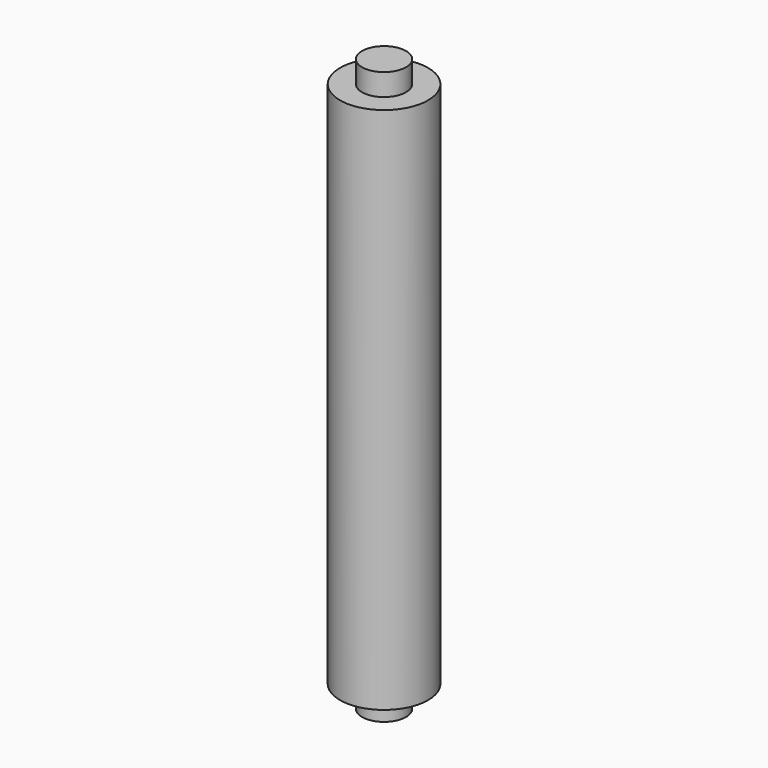
from build123d import *

# Parameters (mm, degrees)
F0_R     = 12.7
F1_DEPTH = 76.2
F2_R     = 6.35
F3_DEPTH = 82.55


with BuildPart() as f1:
    # F0 (on Top) → F1 (new body, symmetric)
    with BuildSketch(Plane.XY):
        Circle(F0_R)
    extrude(amount=F1_DEPTH, both=True)

    # F2 (on Top) → F3 (join, symmetric)
    with BuildSketch(Plane.XY):
        Circle(F2_R)
    extrude(amount=F3_DEPTH, both=True)


solid = f1.part
